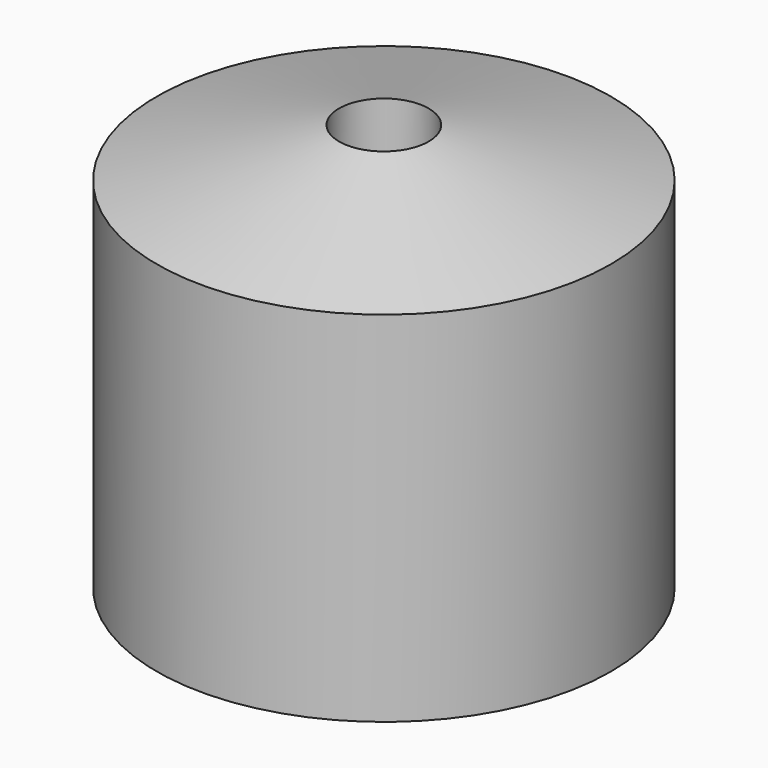
from build123d import *


with BuildPart() as f1:
    # F0 (on Front) → F1 (revolve)
    with BuildSketch(Plane.XZ):
        with BuildLine():
            Line((9.5, 20), (9.5, 1))
            ThreePointArc((9.5, 1), (9.792893, 0.292893), (10.5, 0))
            Line((10.5, 0), (11.837256, 0))
            Line((11.837256, 0), (12.667823, 0))
            Line((12.667823, 0), (12.667823, 20))
            Line((12.667823, 20), (2.5, 22.719119))
            Line((2.5, 22.719119), (2.5, 20))
            Line((2.5, 20), (6.216563, 0))
            Line((6.216563, 0), (7, 0))
            Line((7, 0), (7, 20.137969))
            Line((7, 20.137969), (9.5, 20))
        make_face()
    revolve(axis=Axis((0, 0, 8.652783), (0, 0, 1)))


solid = f1.part
